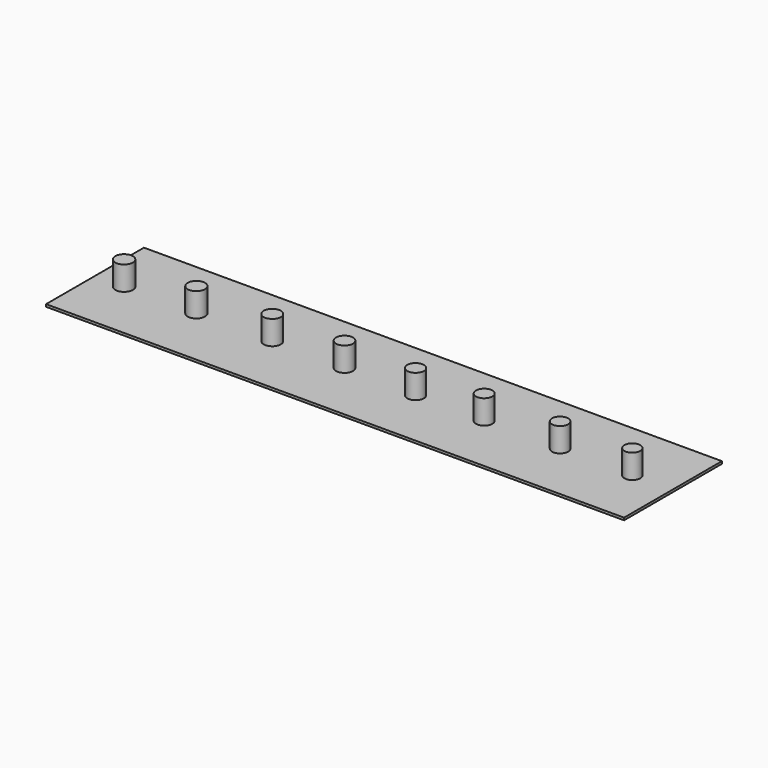
from build123d import *

# Parameters (mm, degrees)
F0_W     = 120
F0_H     = 25.395505
F1_DEPTH = 0.5
F2_R     = 1.775
F2_R_2   = 1.75
F2_R_3   = 1.725
F2_R_4   = 1.675
F2_R_5   = 1.65
F2_R_6   = 1.825
F2_R_7   = 1.8
F2_R_8   = 1.7
F3_DEPTH = 5


with BuildPart() as f1:
    # F0 (on Top) → F1 (new body)
    with BuildSketch(Plane.XY):
        with Locations((60, -12.697752)):
            Rectangle(F0_W, F0_H)
    extrude(amount=F1_DEPTH)


with BuildPart() as f3:
    # F2 (on face) → F3 (new body)
    with BuildSketch(Plane.XY.offset(0.5)):
        with Locations((36.776364, -12.669431)):
            Circle(F2_R)
        with Locations((51.776364, -12.669431)):
            Circle(F2_R_2)
        with Locations((66.776364, -12.972239)):
            Circle(F2_R_3)
        with Locations((96.776364, -12.972239)):
            Circle(F2_R_4)
        with Locations((111.776364, -12.972239)):
            Circle(F2_R_5)
        with Locations((6.055179, -12.719899)):
            Circle(F2_R_6)
        with Locations((21.055179, -12.719899)):
            Circle(F2_R_7)
        with Locations((81.055179, -13.022707)):
            Circle(F2_R_8)
    extrude(amount=F3_DEPTH)


solid = Compound([f1.part, f3.part])
